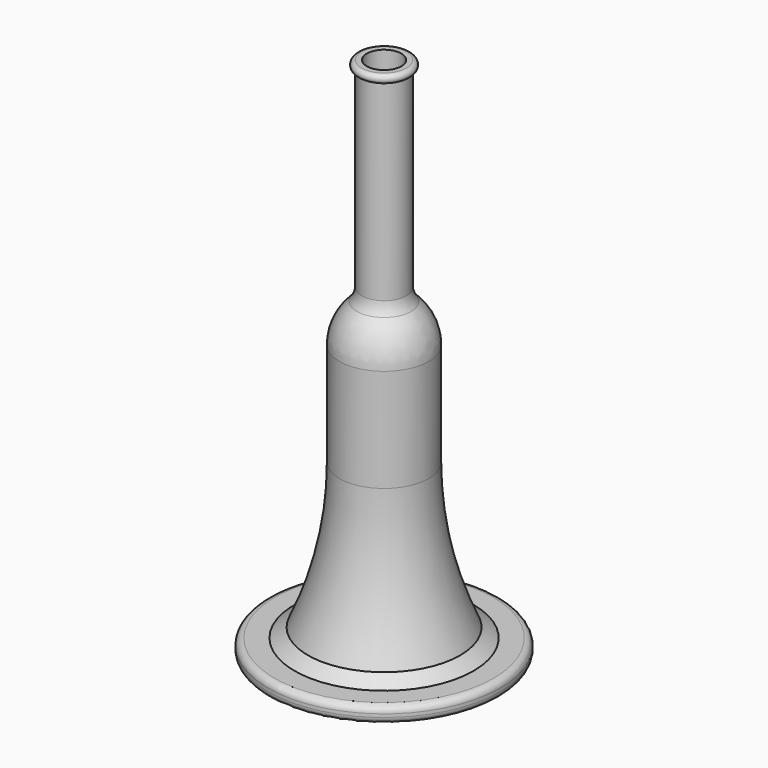
from build123d import *


with BuildPart() as f2:
    # F1 (on Front) → F2 (revolve)
    with BuildSketch(Plane.XZ):
        with BuildLine():
            Line((0, 8), (0, 0))
            Line((0, 0), (53.928765, 0))
            ThreePointArc((53.928765, 0), (56.206522, 0.943478), (57.15, 3.221235))
            Line((57.15, 3.221235), (57.15, 4.778765))
            ThreePointArc((57.15, 4.778765), (56.206522, 7.056522), (53.928765, 8))
            Line((53.928765, 8), (0, 8))
        make_face()
    revolve(axis=Axis((0, 0, 4), (0, 0, -1)))

    # F0 (on Front) → F3 (revolve)
    with BuildSketch(Plane.XZ):
        with BuildLine():
            ThreePointArc((37.5, 12.621126), (25.919391, 47.581066), (22, 84.2))
            Line((22, 84.2), (22, 135))
            ThreePointArc((22, 135), (19.76139, 145.366988), (13.444491, 153.88653))
            ThreePointArc((13.444491, 153.88653), (11.8775, 156.738691), (11.086773, 159.895435))
            Line((11.086773, 159.895435), (11.086773, 254.404873))
            ThreePointArc((11.086773, 254.404873), (13.085189, 256.532103), (11, 258.574348))
            Line((11, 258.574348), (8.5, 258.574348))
            Line((8.5, 258.574348), (8.5, 161.377494))
            ThreePointArc((8.5, 161.377494), (9.249922, 156.662068), (11.42569, 152.411931))
            ThreePointArc((11.42569, 152.411931), (17.383208, 144.596481), (19.5, 135))
            Line((19.5, 135), (19.5, 84.2))
            ThreePointArc((19.5, 84.2), (23.545181, 46.734017), (35.494272, 10.994926))
            ThreePointArc((35.494272, 10.994926), (37.56387, 9.482288), (39.655314, 8))
            Line((39.655314, 8), (44.090602, 8))
            ThreePointArc((44.090602, 8), (40.768456, 10.272278), (37.5, 12.621126))
        make_face()
    revolve(axis=Axis((0, 0, 4), (0, 0, 1)))


solid = f2.part
